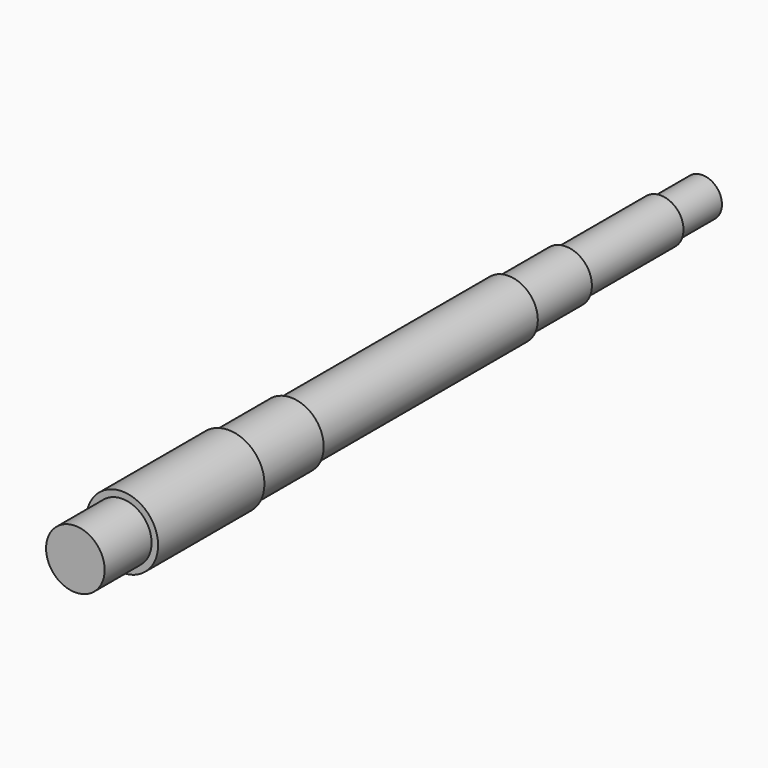
from build123d import *

# Parameters (mm, degrees)
F0_R      = 45
F1_DEPTH  = 417
F2_R      = 40
F3_DEPTH  = 110
F4_R      = 35
F5_DEPTH  = 182
F6_R      = 30
F7_DEPTH  = 80
F8_R      = 50
F9_DEPTH  = 120
F10_R     = 55
F11_DEPTH = 204
F12_R     = 45
F13_DEPTH = 90


with BuildPart() as f1:
    # F0 (on Front) → F1 (new body)
    with BuildSketch(Plane.XZ):
        Circle(F0_R)
    extrude(amount=-F1_DEPTH)

    # F2 (on face) → F3 (join)
    with BuildSketch(Plane(origin=(0, 417, 0), x_dir=(-1, 0, 0), z_dir=(0, 1, 0))):
        Circle(F2_R)
    extrude(amount=F3_DEPTH)

    # F4 (on face) → F5 (join)
    with BuildSketch(Plane(origin=(0, 527, 0), x_dir=(-1, 0, 0), z_dir=(0, 1, 0))):
        Circle(F4_R)
    extrude(amount=F5_DEPTH)

    # F6 (on face) → F7 (join)
    with BuildSketch(Plane(origin=(0, 709, 0), x_dir=(-1, 0, 0), z_dir=(0, 1, 0))):
        Circle(F6_R)
    extrude(amount=F7_DEPTH)

    # F8 (on face) → F9 (join)
    with BuildSketch(Plane.XZ):
        Circle(F8_R)
    extrude(amount=F9_DEPTH)

    # F10 (on face) → F11 (join)
    with BuildSketch(Plane.XZ.offset(120)):
        Circle(F10_R)
    extrude(amount=F11_DEPTH)

    # F12 (on face) → F13 (join)
    with BuildSketch(Plane.XZ.offset(324)):
        Circle(F12_R)
    extrude(amount=F13_DEPTH)


solid = f1.part
